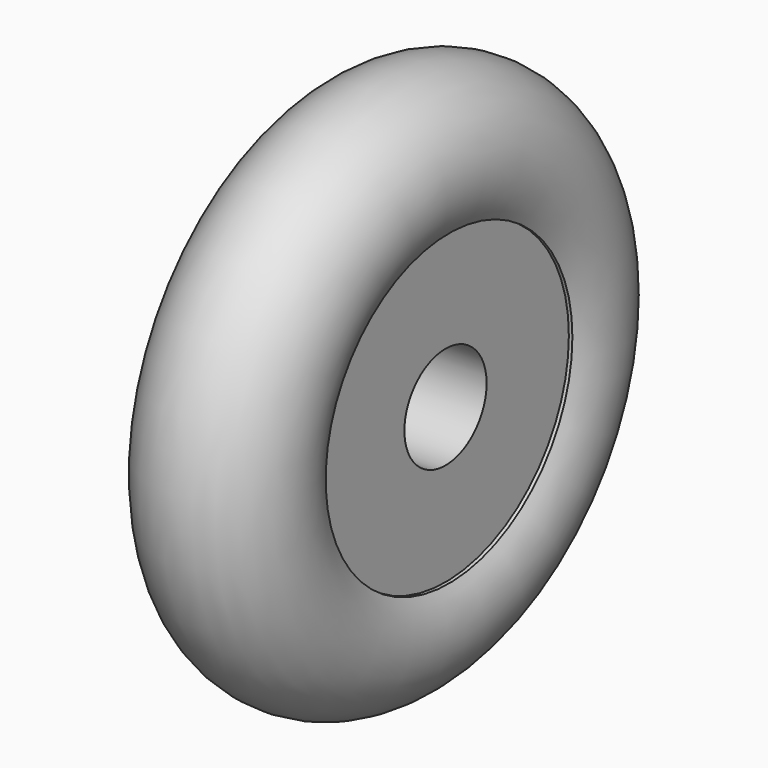
from build123d import *


with BuildPart() as f1:
    # F0 (on Top) → F1 (revolve)
    with BuildSketch(Plane.XY):
        with BuildLine():
            Line((60, -40), (63.442888, -40))
            ThreePointArc((63.442888, -40), (0, 75), (-63.442888, -40))
            Line((-63.442888, -40), (-60, -40))
            Line((-60, -40), (-60, -140))
            Line((-60, -140), (0, -140))
            Line((0, -140), (60, -140))
            Line((60, -140), (60, -40))
        make_face()
    revolve(axis=Axis((7.790029, -190, 0), (1, 0, 0)))


solid = f1.part
